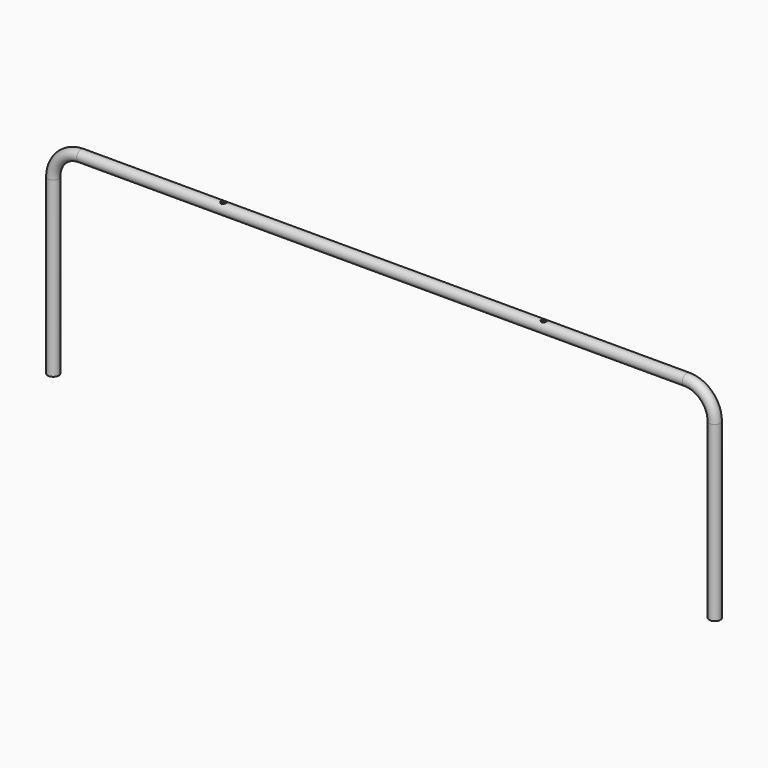
from build123d import *

# Parameters (mm, degrees)
F1_R     = 12.7
F1_R_2   = 9.525
F4_R     = 6.35
F5_DEPTH = 12.7


with BuildPart() as f2:
    # F2: sweep along a path in F0
    with BuildLine(Plane.XZ) as f2_path:
        Line((-752.475, 0), (-752.475, 393.7))
        ThreePointArc((-752.475, 393.7), (-733.8762806053, 438.6012806053), (-688.975, 457.2))
        Line((-688.975, 457.2), (688.975, 457.2))
        ThreePointArc((688.975, 457.2), (733.8762806053, 438.6012806053), (752.475, 393.7))
        Line((752.475, 393.7), (752.475, 0))
    # F1 (on Top) → F2 (sweep)
    with BuildSketch(Plane.XY):
        with Locations((-752.475, 0)):
            Circle(F1_R)
        with Locations((-752.475, 0)):
            Circle(F1_R_2, mode=Mode.SUBTRACT)
    sweep(path=f2_path.line)

    # F4 (on offset) → F5 (cut, symmetric)
    with BuildSketch(Plane.XY.offset(457.2)):
        with Locations((-364.49, 0)):
            Circle(F4_R)
        with Locations((364.49, 0)):
            Circle(F4_R)
    extrude(amount=F5_DEPTH, both=True, mode=Mode.SUBTRACT)


solid = f2.part
